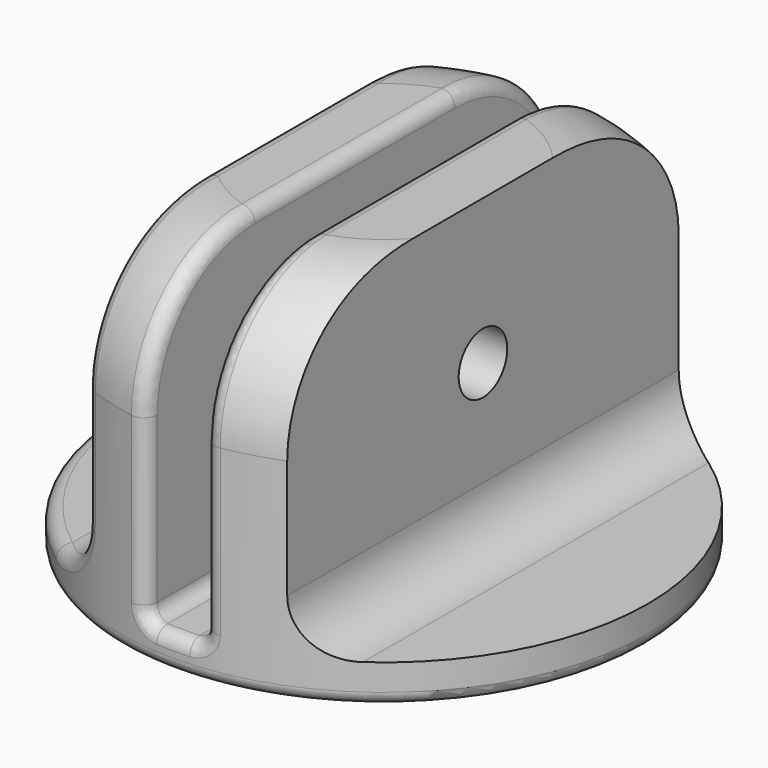
from build123d import *

# Parameters (mm, degrees)
CYLINDER439_R     = 4
CYLINDER439_DEPTH = 38
CYLINDER440_R     = 4
CYLINDER440_DEPTH = 38
BOX057_W          = 4.4
BOX057_H          = 42
BOX057_DEPTH      = 24
BOX058_W          = 7
BOX058_H          = 38
BOX058_DEPTH      = 19
BOX059_W          = 7
BOX059_H          = 38
BOX059_DEPTH      = 19
BOX060_W          = 9
BOX060_H          = 38
BOX060_DEPTH      = 23
BOX061_W          = 9
BOX061_H          = 38
BOX061_DEPTH      = 23
CYLINDER438_R     = 2.3
CYLINDER438_DEPTH = 24
CYLINDER437_R     = 20
CYLINDER437_DEPTH = 26
FILLET012_R       = 10
FILLET013_R       = 1
FILLET014_R       = 1


with BuildPart() as cylinder439:
    # Cylinder439 → Cylinder439 (new body)
    with BuildSketch(Plane(origin=(11.5, 19, 119), x_dir=(1, 0, 0), z_dir=(0, -1, 0))):
        Circle(CYLINDER439_R)
    extrude(amount=CYLINDER439_DEPTH)


with BuildPart() as cylinder440:
    # Cylinder440 → Cylinder440 (new body)
    with BuildSketch(Plane(origin=(-11.5, 19, 119), x_dir=(1, 0, 0), z_dir=(0, -1, 0))):
        Circle(CYLINDER440_R)
    extrude(amount=CYLINDER440_DEPTH)


with BuildPart() as cube057:
    # Box057 → Box057 (new body)
    with BuildSketch(Plane(origin=(-2.2, -21, 114.5), x_dir=(1, 0, 0), z_dir=(0, 0, 1))):
        with Locations((2.2, 21)):
            Rectangle(BOX057_W, BOX057_H)
    extrude(amount=BOX057_DEPTH)


with BuildPart() as cube058:
    # Box058 → Box058 (new body)
    with BuildSketch(Plane(origin=(7.5, -19, 119), x_dir=(1, 0, 0), z_dir=(0, 0, 1))):
        with Locations((3.5, 19)):
            Rectangle(BOX058_W, BOX058_H)
    extrude(amount=BOX058_DEPTH)


with BuildPart() as cube059:
    # Box059 → Box059 (new body)
    with BuildSketch(Plane(origin=(-14.5, -19, 119), x_dir=(1, 0, 0), z_dir=(0, 0, 1))):
        with Locations((3.5, 19)):
            Rectangle(BOX059_W, BOX059_H)
    extrude(amount=BOX059_DEPTH)


with BuildPart() as cube060:
    # Box060 → Box060 (new body)
    with BuildSketch(Plane(origin=(-20.5, -19, 115), x_dir=(1, 0, 0), z_dir=(0, 0, 1))):
        with Locations((4.5, 19)):
            Rectangle(BOX060_W, BOX060_H)
    extrude(amount=BOX060_DEPTH)


with BuildPart() as cube061:
    # Box061 → Box061 (new body)
    with BuildSketch(Plane(origin=(11.5, -19, 115), x_dir=(1, 0, 0), z_dir=(0, 0, 1))):
        with Locations((4.5, 19)):
            Rectangle(BOX061_W, BOX061_H)
    extrude(amount=BOX061_DEPTH)


with BuildPart() as fusion237:
    # Cylinder438 → Cylinder438 (new body)
    with BuildSketch(Plane(origin=(-12, 0, 127), x_dir=(0, 0, -1), z_dir=(1, 0, 0))):
        Circle(CYLINDER438_R)
    extrude(amount=CYLINDER438_DEPTH)

    # Fusion237: union Cylinder439, Cylinder440, Cube057, Cube058, Cube059, Cube060, Cube061
    add(cylinder439.part)
    add(cylinder440.part)
    add(cube057.part)
    add(cube058.part)
    add(cube059.part)
    add(cube060.part)
    add(cube061.part)


with BuildPart() as fusion237_1:
    # Fusion237 placement: moved
    add(fusion237.part.moved(Location((0, 0, 1.5))))


with BuildPart() as top_screw_head:
    # Cylinder437 → Cylinder437 (new body)
    with BuildSketch(Plane.XY.offset(113.5)):
        Circle(CYLINDER437_R)
    extrude(amount=CYLINDER437_DEPTH)

    # Cut220: cut Fusion237
    add(fusion237_1.part, mode=Mode.SUBTRACT)

    # Fillet012
    fillet012_edges = [top_screw_head.edges().sort_by_distance(p)[0] for p in [
        (4.895932, -19.391489, 139.5),
        (-4.895932, -19.391489, 139.5),
        (-4.895932, 19.391489, 139.5),
        (4.895932, 19.391489, 139.5),
    ]]
    fillet(fillet012_edges, radius=FILLET012_R)

    # Fillet013
    fillet013_edges = [top_screw_head.edges().sort_by_distance(p)[0] for p in [
        (2.2, 0, 116),
        (-2.2, 0, 116),
    ]]
    fillet(fillet013_edges, radius=FILLET013_R)

    # Fillet014
    fillet014_edges = [top_screw_head.edges().sort_by_distance(p)[0] for p in [
        (20, 0, 115),
        (-20, 0, 113.5),
        (-7.5, 18.540496, 125),
        (-2.2, 19.878632, 123.25),
    ]]
    fillet(fillet014_edges, radius=FILLET014_R)


with BuildPart() as top_screw_head_1:
    # Fillet014 placement: moved
    add(top_screw_head.part.moved(Location((0, 0, 0.5))))


solid = top_screw_head_1.part
